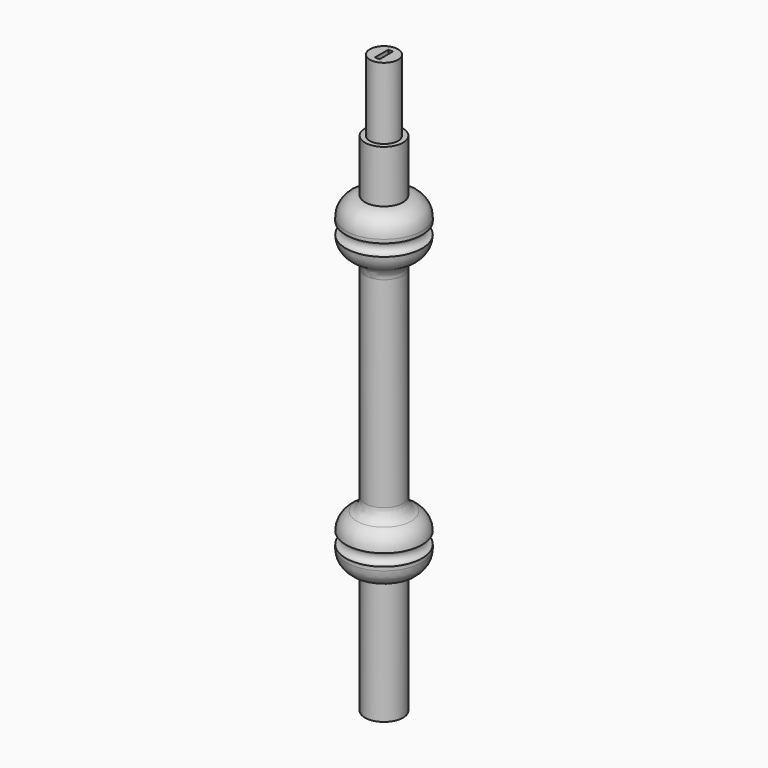
from build123d import *

# Parameters (mm, degrees)
FILLET_R     = 3
SKETCH001_W  = 3.5
SKETCH001_H  = 1
POCKET_DEPTH = 1.2


with BuildPart() as part:
    # Sketch → Revolution (revolve)
    with BuildSketch(Plane.YZ):
        with BuildLine():
            Line((0, 0), (-4, 0))
            Line((-4, 0), (-4, 26))
            ThreePointArc((-7.999999, 30.000001), (-6.828427, 27.171574), (-4, 26))
            Line((-7.999999, 30.750001), (-7.999999, 30.000001))
            ThreePointArc((-7.999999, 30.750001), (-6.749999, 32.000001), (-7.999999, 33.250001))
            ThreePointArc((-3.999999, 37.250001), (-6.828426, 36.078428), (-7.999999, 33.250001))
            Line((-3.999999, 37.250001), (-3.999999, 84.000001))
            ThreePointArc((-7.999999, 88.000001), (-6.828426, 85.171574), (-3.999999, 84.000001))
            ThreePointArc((-7.999999, 88.000001), (-6.749999, 89.250001), (-7.999999, 90.500001))
            Line((-7.999999, 90.500001), (-7.999999, 91.250001))
            ThreePointArc((-4, 95.250001), (-6.828426, 94.078428), (-7.999999, 91.250001))
            Line((-4, 106.250001), (-4, 95.250001))
            Line((-2.97, 106.250001), (-4, 106.250001))
            Line((-2.97, 121.250001), (-2.97, 106.250001))
            Line((0, 121.250001), (-2.97, 121.250001))
            Line((0, 106.250001), (0, 121.250001))
            Line((0, 0), (0, 106.250001))
        make_face()
    revolve(axis=Axis((0, 0, 0), (0, 0, 1)))

    # Fillet
    fillet_edges = [part.edges().sort_by_distance(p)[0] for p in [
        (0, 3.999999, 37.250001),
        (0, 3.999999, 84.000001),
        (0, -3.999999, 60.625001),
    ]]
    fillet(fillet_edges, radius=FILLET_R)

    # Sketch001 (on Face17 of Fillet) → Pocket (cut)
    with BuildSketch(Plane(origin=(0, 0, 121.250001), x_dir=(0, -1, 0), z_dir=(0, 0, 1))):
        Rectangle(SKETCH001_W, SKETCH001_H)
    extrude(amount=-POCKET_DEPTH, mode=Mode.SUBTRACT)


solid = part.part
